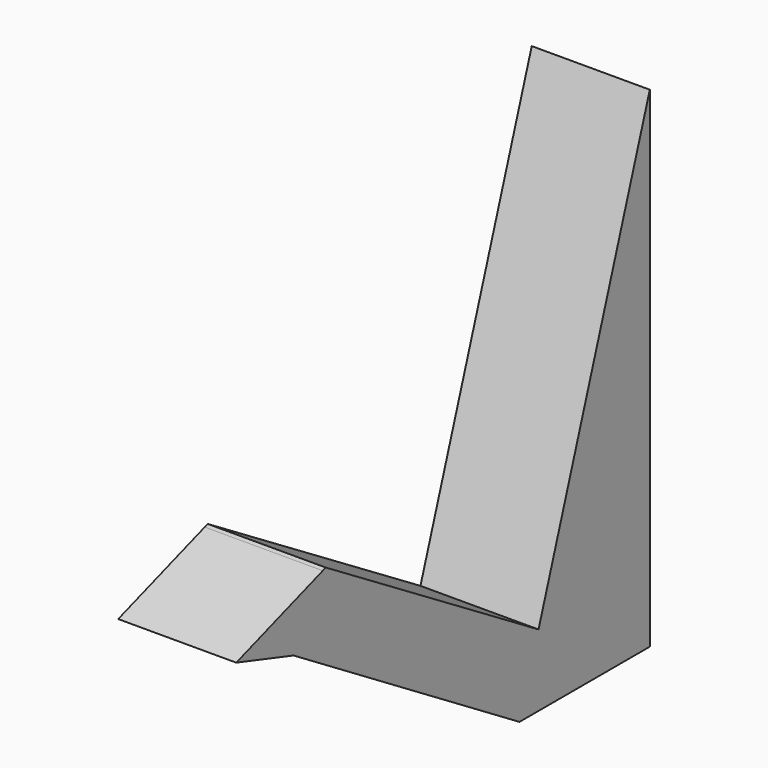
from build123d import *

# Parameters (mm, degrees)
F1_DEPTH = 25.4


with BuildPart() as f1:
    # F0 (on Right) → F1 (new body)
    with BuildSketch(Plane.YZ):
        Polygon((8.753066, -50.786357), (13.879089, -35.358516), (-43.346036, -0.368352), (-44.144051, -0.641464), (-52.029345, -13.493421), align=None)
        Polygon((-67.410849, -8.604288), (-52.029345, -13.493421), (-44.144051, -0.641464), align=None)
        Polygon((43.804381, -50.786357), (43.804381, 54.707926), (13.879089, -35.358516), (8.753066, -50.786357), align=None)
    extrude(amount=F1_DEPTH)


solid = f1.part
